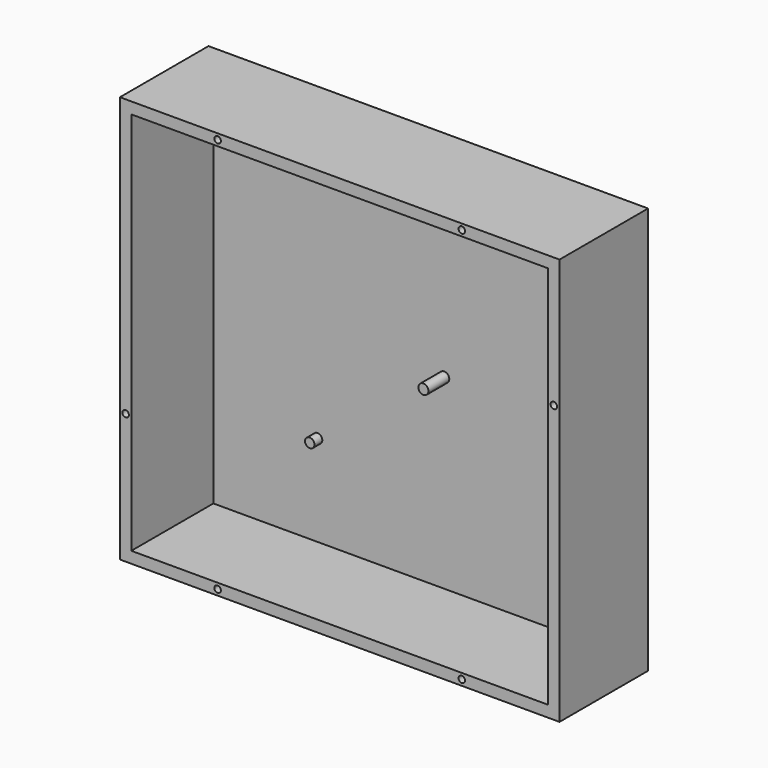
from build123d import *

# Parameters (mm, degrees)
F0_W      = 135
F0_H      = 125
F1_DEPTH  = 35
F2_T      = -3.5
F3_R      = 1.45
F3_R_2    = 1.55
F4_DEPTH  = 8
F5_R      = 1
F6_DEPTH  = 8
F7_W      = 135
F7_H      = 125
F8_DEPTH  = 1
F9_R      = 1.830023
F10_DEPTH = 5
F11_R     = 2.785388
F12_DEPTH = 5


with BuildPart() as f1:
    # F0 (on Front) → F1 (new body)
    with BuildSketch(Plane.XZ):
        with Locations((-67.5, 62.5)):
            Rectangle(F0_W, F0_H)
    extrude(amount=F1_DEPTH)

    # F2
    f2_openings = [f1.faces().sort_by_distance(p)[0] for p in [
        (-67.5, -35, 62.5),
    ]]
    offset(amount=F2_T, openings=f2_openings)

    # F3 (on face) → F4 (join)
    with BuildSketch(Plane.XZ.offset(3.5)):
        with Locations((-99.5, 106.5)):
            Circle(F3_R)
        with Locations((-99.5, 31.5)):
            Circle(F3_R)
        with Locations((-45.4, 111.5)):
            Circle(F3_R_2)
        with Locations((-17.5, 111.5)):
            Circle(F3_R_2)
        with Locations((-12.7, 59.6)):
            Circle(F3_R_2)
        with Locations((-60.6, 60.7)):
            Circle(F3_R_2)
    extrude(amount=F4_DEPTH)

    # F5 (on face) → F6 (cut)
    with BuildSketch(Plane.XZ.offset(35)):
        with Locations((-30, 123.25)):
            Circle(F5_R)
        with Locations((-1.75, 85)):
            Circle(F5_R)
        with Locations((-30, 1.75)):
            Circle(F5_R)
        with Locations((-105, 1.75)):
            Circle(F5_R)
        with Locations((-133.25, 40)):
            Circle(F5_R)
        with Locations((-105, 123.25)):
            Circle(F5_R)
    extrude(amount=-F6_DEPTH, mode=Mode.SUBTRACT)

    # F7 (on face) → F8 (cut)
    with BuildSketch(Plane(origin=(0, 0, 0), x_dir=(-1, 0, 0), z_dir=(0, 1, 0))):
        with Locations((67.5, 62.5)):
            Rectangle(F7_W, F7_H)
    extrude(amount=-F8_DEPTH, mode=Mode.SUBTRACT)

    # F9 (on face) → F10 (cut)
    with BuildSketch(Plane.XZ.offset(11.5)):
        with Locations((-99.5, 106.5)):
            Circle(F9_R)
    extrude(amount=-F10_DEPTH, mode=Mode.SUBTRACT)

    # F11 (on face) → F12 (cut)
    with BuildSketch(Plane.XZ.offset(11.5)):
        with Locations((-99.5, 31.5)):
            Circle(F11_R)
    extrude(amount=-F12_DEPTH, mode=Mode.SUBTRACT)


solid = f1.part
